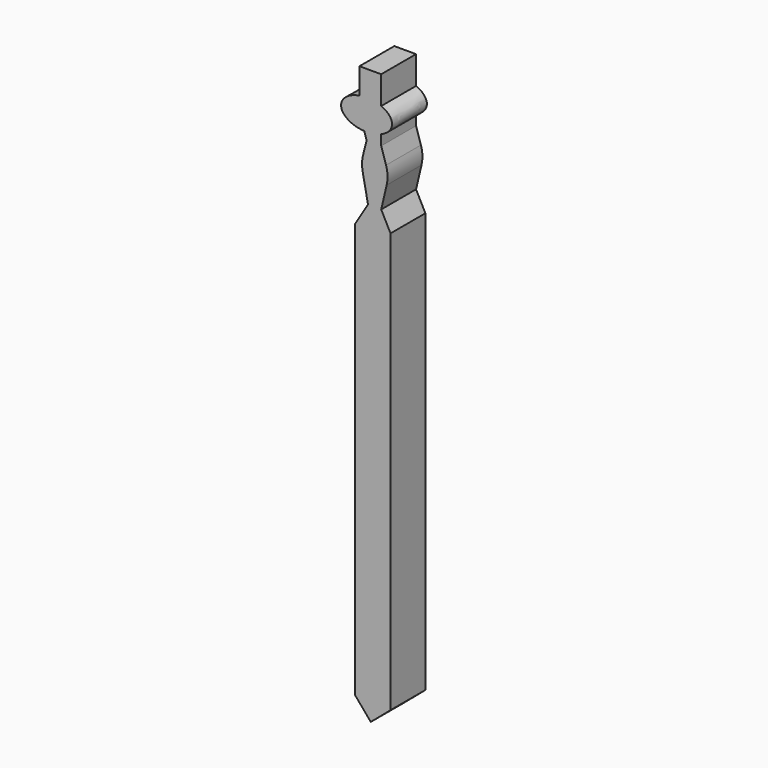
from build123d import *

# Parameters (mm, degrees)
F1_DEPTH = 10.16
F2_R     = 7.62


with BuildPart() as f1:
    # F0 (on Front) → F1 (new body)
    with BuildSketch(Plane.XZ):
        with BuildLine():
            Line((-3.9600496136, 46.8081421163), (-5.0717843696, 50.4073351622))
            Line((-5.0717843696, 50.4073351622), (-5.0717843696, 53.7069801957))
            add(Edge.make_bspline(
                [(-5.0717843696, 53.7069801957), (-9.7872101424, 52.8896516072), (-9.3190155615, 49.98428359), (-8.8508209805, 47.0789155728), (-3.9600496136, 46.8081421163)],
                knots=[1.8546277932, 1.8546277932, 1.8546277932, 3.237054932, 3.237054932, 4.6194820708, 4.6194820708, 4.6194820708], degree=2, weights=[1, 0.7704729652, 1, 0.7704729652, 1]))
        make_face()
        with BuildLine():
            Line((-5.0717843696, 53.7069801957), (-5.0717843696, 50.4073351622))
            Line((-5.0717843696, 50.4073351622), (-3.4092757851, 50.3205247223))
            Line((-3.4092757851, 50.3205247223), (0, 50.3205247223))
            Line((0, 50.3205247223), (0, 53.2084615699))
            add(Edge.make_bspline(
                [(0, 53.2084615699), (-2.3344082128, 54.1814518338), (-5.0717843696, 53.7069801957)],
                knots=[0.9590909996, 0.9590909996, 0.9590909996, 1.8546277932, 1.8546277932, 1.8546277932], degree=2, weights=[1, 0.9014155299, 1]))
        make_face()
        with BuildLine():
            Line((-3.4092757851, 50.3205247223), (-5.0717843696, 50.4073351622))
            Line((-5.0717843696, 50.4073351622), (-3.9600496136, 46.8081421163))
            add(Edge.make_bspline(
                [(-3.9600496136, 46.8081421163), (-1.7868441224, 46.6878244162), (0, 47.4325878748)],
                knots=[4.6194820708, 4.6194820708, 4.6194820708, 5.3240943076, 5.3240943076, 5.3240943076], degree=2, weights=[1, 0.9385794527, 1]))
            Line((0, 47.4325878748), (0, 50.3205247223))
            Line((0, 50.3205247223), (-3.4092757851, 50.3205247223))
        make_face()
        with BuildLine():
            Line((-5.0717843696, 57.2387203574), (-5.0717843696, 53.7069801957))
            add(Edge.make_bspline(
                [(0, 53.2084615699), (-2.3344082128, 54.1814518338), (-5.0717843696, 53.7069801957)],
                knots=[0.9590909996, 0.9590909996, 0.9590909996, 1.8546277932, 1.8546277932, 1.8546277932], degree=2, weights=[1, 0.9014155299, 1]))
            Line((0, 53.2084615699), (0, 57.2387203574))
            Line((0, 57.2387203574), (0, 59.7362034023))
            Line((0, 59.7362034023), (-5.0717843696, 59.7362034023))
            Line((-5.0717843696, 59.7362034023), (-5.0717843696, 57.2387203574))
        make_face()
        with BuildLine():
            add(Edge.make_bspline(
                [(-3.9600496136, 46.8081421163), (-1.7868441224, 46.6878244162), (0, 47.4325878748)],
                knots=[4.6194820708, 4.6194820708, 4.6194820708, 5.3240943076, 5.3240943076, 5.3240943076], degree=2, weights=[1, 0.9385794527, 1]))
            Line((-3.9600496136, 46.8081421163), (-3.4092757851, 45.0250357389))
            Line((-3.4092757851, 45.0250357389), (-4.6577635221, 40.0567539036))
            Line((-4.6577635221, 40.0567539036), (-3.0716650654, 31.9832973182))
            Line((-3.0716650654, 31.9832973182), (0, 31.9832973182))
            Line((0, 31.9832973182), (1.7595981481, 39.4357182086))
            Line((1.7595981481, 39.4357182086), (0, 45.0250357389))
            Line((0, 45.0250357389), (0, 47.4325878748))
        make_face()
        with BuildLine():
            add(Edge.make_bspline(
                [(2.5274944865, 50.3205247223), (2.5274944865, 52.1549922093), (0, 53.2084615699)],
                knots=[0, 0, 0, 0.9590909996, 0.9590909996, 0.9590909996], degree=2, weights=[1, 0.8872047099, 1]))
            Line((0, 53.2084615699), (0, 50.3205247223))
            Line((0, 50.3205247223), (0, 47.4325878748))
            add(Edge.make_bspline(
                [(0, 47.4325878748), (2.5274944865, 48.4860572353), (2.5274944865, 50.3205247223)],
                knots=[5.3240943076, 5.3240943076, 5.3240943076, 6.2831853072, 6.2831853072, 6.2831853072], degree=2, weights=[1, 0.8872047099, 1]))
        make_face()
        Polygon((0, 31.9832973182), (-3.0716650654, 31.9832973182), (-6.1068427749, 27.0150192082), (-6.1068427749, -69.6594193578), (-2.4293053522, -73.9859317972), (2.1736230701, -70.073440671), (2.1736230701, 27.7847805718), align=None)
    extrude(amount=F1_DEPTH)

    # F2
    f2_edges = [f1.edges().sort_by_distance(p)[0] for p in [
        (-4.657764, -5.08, 40.056754),
        (1.759598, -5.08, 39.435718),
    ]]
    fillet(f2_edges, radius=F2_R)


solid = f1.part
